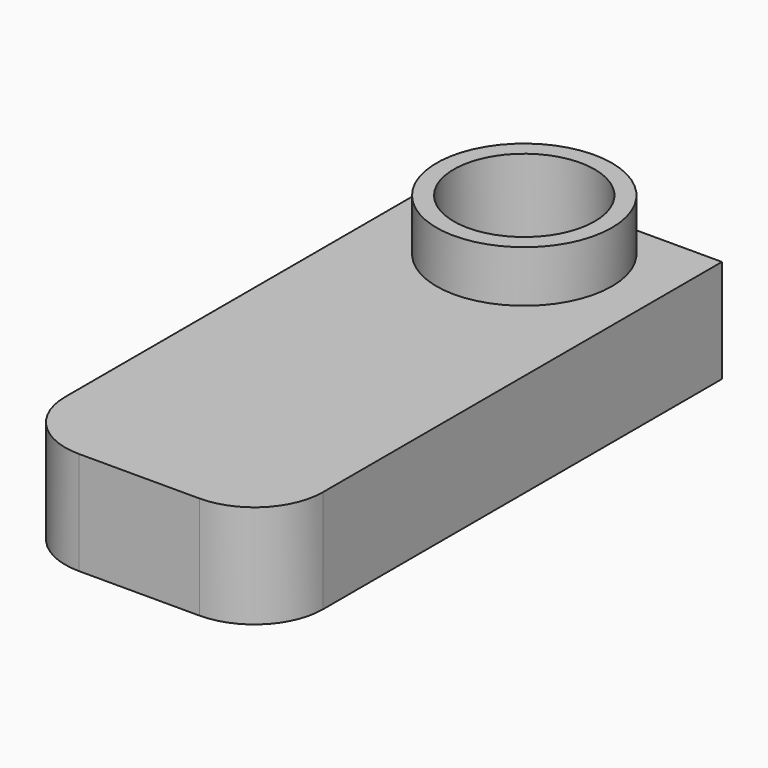
from build123d import *

# Parameters (mm, degrees)
SKETCH_W     = 15
SKETCH_H     = 33
PAD_DEPTH    = 6
SKETCH001_R  = 5.1
PAD001_DEPTH = 3
SKETCH002_R  = 4.1
POCKET_DEPTH = 9.001
FILLET_R     = 4


with BuildPart() as part:
    # Sketch → Pad (new body)
    with BuildSketch(Plane.XY):
        with Locations((7.5, 16.5)):
            Rectangle(SKETCH_W, SKETCH_H)
    extrude(amount=PAD_DEPTH)

    # Sketch001 → Pad001 (new body)
    with BuildSketch(Plane.XY.offset(6)):
        with Locations((7.5, 28)):
            Circle(SKETCH001_R)
    extrude(amount=PAD001_DEPTH)

    # Sketch002 → Pocket (cut, through all)
    with BuildSketch(Plane.XY.offset(9)):
        with Locations((7.5, 28)):
            Circle(SKETCH002_R)
    extrude(amount=-POCKET_DEPTH, mode=Mode.SUBTRACT)

    # Fillet
    fillet_edges = [part.edges().sort_by_distance(p)[0] for p in [
        (0, 0, 3),
        (15, 0, 3),
    ]]
    fillet(fillet_edges, radius=FILLET_R)


solid = part.part
